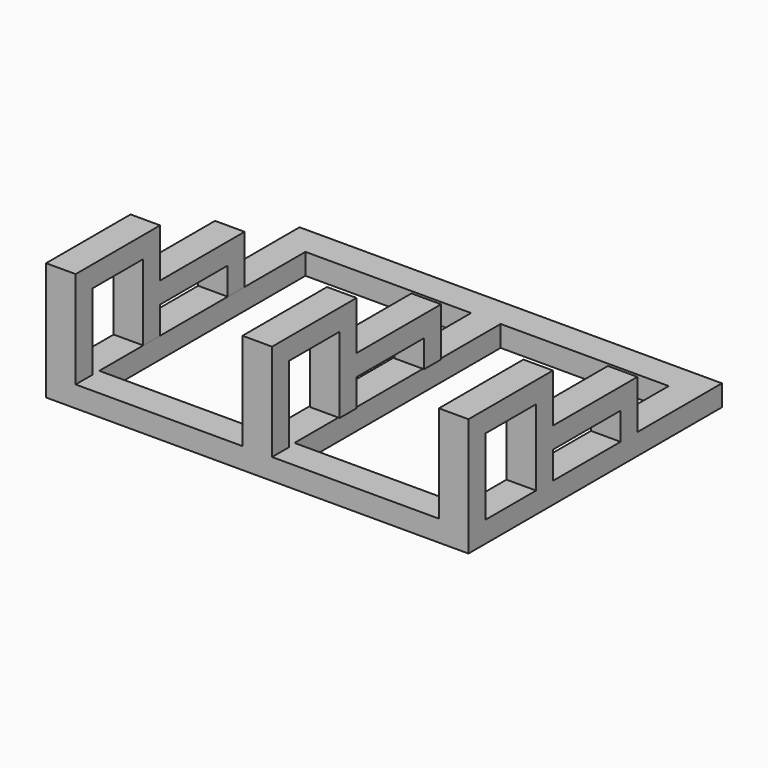
from build123d import *

# Parameters (mm, degrees)
SKETCH_W                   = 1000
SKETCH_H                   = 750
SKETCH_W_2                 = 392.088353
SKETCH_H_2                 = 610
SKETCH_W_3                 = 397.911647
PAD_DEPTH                  = 50
SKETCH001_W                = 70
SKETCH001_H                = 50
PAD001_DEPTH               = 180
SKETCH001_MIRRORED001_2_W  = 70
SKETCH001_MIRRORED001_2_H  = 50
PAD001_MIRRORED001_2_DEPTH = 180
LINEARPATTERN_COUNT        = 3
LINEARPATTERN_PITCH        = 465
SKETCH002_W                = 70
SKETCH002_H                = 50
PAD002_DEPTH               = 65
SKETCH003_W                = 70
SKETCH003_H                = 250
PAD003_DEPTH               = 50
LINEARPATTERN001_COUNT     = 3
LINEARPATTERN001_PITCH     = 465
LINEARPATTERN002_COUNT     = 3
LINEARPATTERN002_PITCH     = 465
SKETCH004_W                = 70
SKETCH004_H                = 250
PAD004_DEPTH               = 50
LINEARPATTERN003_COUNT     = 3
LINEARPATTERN003_PITCH     = 465


with BuildPart() as part:
    # Sketch → Pad (new body)
    with BuildSketch(Plane.XY):
        with Locations((500, 375)):
            Rectangle(SKETCH_W, SKETCH_H)
        with Locations((266.044176, 375)):
            Rectangle(SKETCH_W_2, SKETCH_H_2, mode=Mode.SUBTRACT)
        with Locations((731.044177, 375)):
            Rectangle(SKETCH_W_3, SKETCH_H_2, mode=Mode.SUBTRACT)
    extrude(amount=PAD_DEPTH)

    # Sketch001 → Pad001 (join)
    with BuildSketch(Plane.XY.offset(50)):
        with Locations((35, 25)):
            Rectangle(SKETCH001_W, SKETCH001_H)
    pad001 = extrude(amount=PAD001_DEPTH)

    # Sketch001 Mirrored001 2 → Pad001 Mirrored001 2 (add)
    with BuildSketch(Plane(origin=(0, 250, 50), x_dir=(1, 0, 0), z_dir=(0, 0, -1))):
        with Locations((35, 25)):
            Rectangle(SKETCH001_MIRRORED001_2_W, SKETCH001_MIRRORED001_2_H)
    pad001_mirrored001_2 = extrude(amount=-PAD001_MIRRORED001_2_DEPTH)

    # LinearPattern: Pad001, Pad001 Mirrored001 2 ×3
    with Locations(*[(i * LINEARPATTERN_PITCH, 0, 0) for i in range(1, LINEARPATTERN_COUNT)]):
        add(pad001)
        add(pad001_mirrored001_2)

    # Sketch002 → Pad002 (join)
    with BuildSketch(Plane.XY.offset(50)):
        with Locations((35, 475)):
            Rectangle(SKETCH002_W, SKETCH002_H)
    pad002 = extrude(amount=PAD002_DEPTH)

    # Sketch003 (on DatumPlane) → Pad003 (join)
    with BuildSketch(Plane.XY.offset(230)):
        with Locations((35, 125)):
            Rectangle(SKETCH003_W, SKETCH003_H)
    pad003 = extrude(amount=PAD003_DEPTH)

    # LinearPattern001: Pad002 ×3
    with Locations(*[(i * LINEARPATTERN001_PITCH, 0, 0) for i in range(1, LINEARPATTERN001_COUNT)]):
        add(pad002)

    # LinearPattern002: Pad003 ×3
    with Locations(*[(i * LINEARPATTERN002_PITCH, 0, 0) for i in range(1, LINEARPATTERN002_COUNT)]):
        add(pad003)

    # Sketch004 (on DatumPlane) → Pad004 (join)
    with BuildSketch(Plane.XY.offset(115)):
        with Locations((35, 375)):
            Rectangle(SKETCH004_W, SKETCH004_H)
    pad004 = extrude(amount=PAD004_DEPTH)

    # LinearPattern003: Pad004 ×3
    with Locations(*[(i * LINEARPATTERN003_PITCH, 0, 0) for i in range(1, LINEARPATTERN003_COUNT)]):
        add(pad004)


solid = part.part
